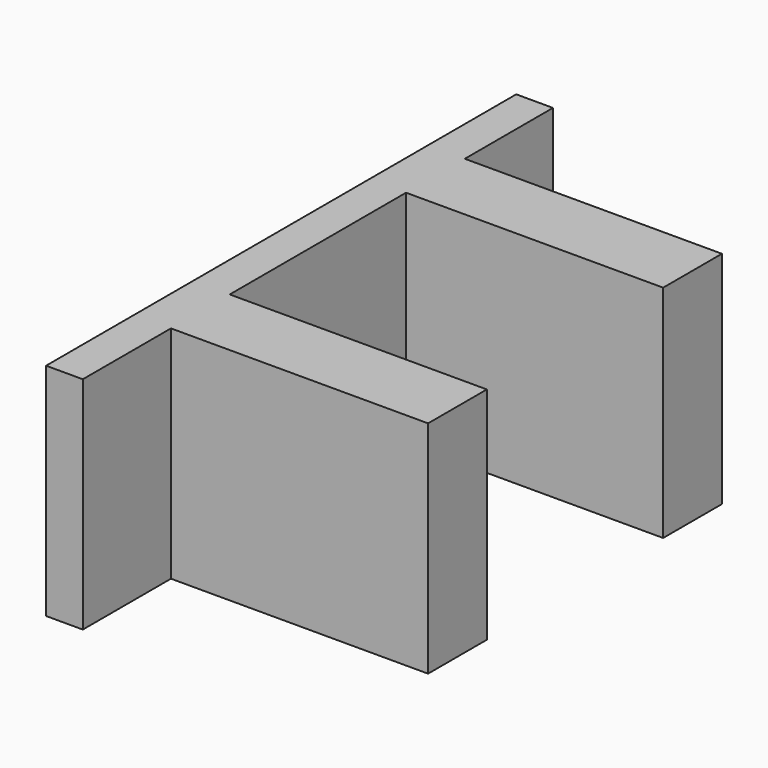
from build123d import *

# Parameters (mm, degrees)
F1_DEPTH = 10
F2_W     = 10
F2_H     = 60
F3_DEPTH = 30


with BuildPart() as f1:
    # F0 (on Front) → F1 (new body)
    with BuildSketch(Plane.XZ):
        Polygon((40, 0), (10, 30), (-40, 30), (-40, -30), (40, -30), align=None)
    extrude(amount=F1_DEPTH)

    # F2 (on face) → F3 (join)
    with BuildSketch(Plane.XZ.offset(10)):
        with Locations((-35, 0)):
            Rectangle(F2_W, F2_H)
    extrude(amount=F3_DEPTH)

    # F4: F1 across plane


with BuildPart() as f1_1:
    add(f1.part)
    add(f1.part.mirror(Plane.XY))

    # F5: F1 across face


with BuildPart() as f1_2:
    add(f1_1.part)
    add(f1_1.part.mirror(Plane(origin=(0, 0, 0), x_dir=(-1, 0, 0), z_dir=(0, 1, 0))))

    # F6: F1 across face


with BuildPart() as f1_3:
    add(f1_2.part)
    add(f1_2.part.mirror(Plane(origin=(-35, 40, 0), x_dir=(-1, 0, 0), z_dir=(0, 1, 0))))


solid = f1_3.part
